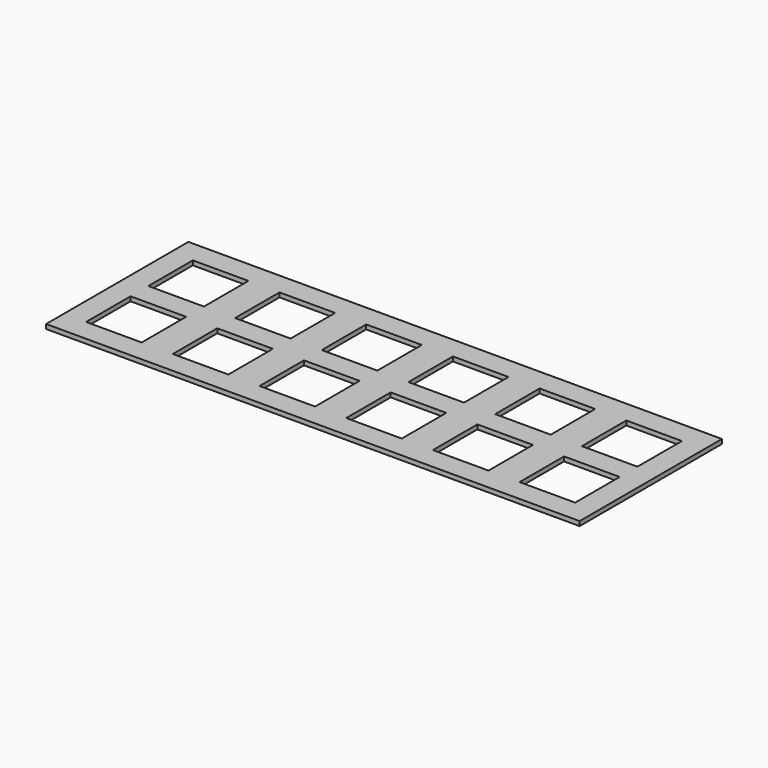
from build123d import *

# Parameters (mm, degrees)
F0_W     = 120
F0_H     = 40
F0_W_2   = 12.5
F0_H_2   = 12.5
F1_DEPTH = 1


with BuildPart() as f1:
    # F0 (on Top) → F1 (new body)
    with BuildSketch(Plane.XY):
        Rectangle(F0_W, F0_H)
        with Locations((-48.75, -8.75)):
            Rectangle(F0_W_2, F0_H_2, mode=Mode.SUBTRACT)
        with Locations((-29.25, -8.75)):
            Rectangle(F0_W_2, F0_H_2, mode=Mode.SUBTRACT)
        with Locations((-9.75, -8.75)):
            Rectangle(F0_W_2, F0_H_2, mode=Mode.SUBTRACT)
        with Locations((9.75, -8.75)):
            Rectangle(F0_W_2, F0_H_2, mode=Mode.SUBTRACT)
        with Locations((29.25, -8.75)):
            Rectangle(F0_W_2, F0_H_2, mode=Mode.SUBTRACT)
        with Locations((48.75, -8.75)):
            Rectangle(F0_W_2, F0_H_2, mode=Mode.SUBTRACT)
        with Locations((-48.75, 8.75)):
            Rectangle(F0_W_2, F0_H_2, mode=Mode.SUBTRACT)
        with Locations((-29.25, 8.75)):
            Rectangle(F0_W_2, F0_H_2, mode=Mode.SUBTRACT)
        with Locations((-9.75, 8.75)):
            Rectangle(F0_W_2, F0_H_2, mode=Mode.SUBTRACT)
        with Locations((9.75, 8.75)):
            Rectangle(F0_W_2, F0_H_2, mode=Mode.SUBTRACT)
        with Locations((29.25, 8.75)):
            Rectangle(F0_W_2, F0_H_2, mode=Mode.SUBTRACT)
        with Locations((48.75, 8.75)):
            Rectangle(F0_W_2, F0_H_2, mode=Mode.SUBTRACT)
    extrude(amount=F1_DEPTH)


solid = f1.part
